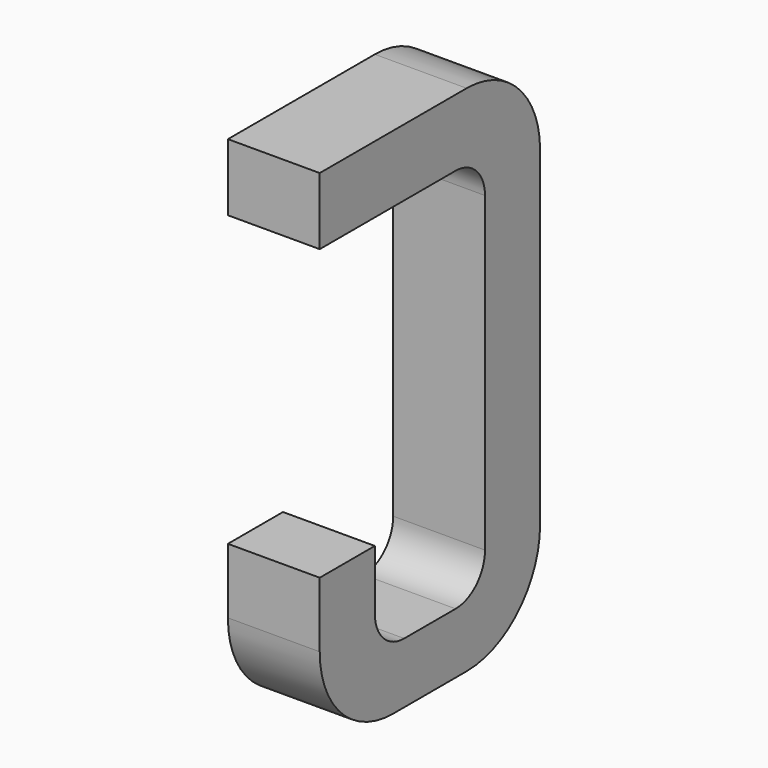
from build123d import *

# Parameters (mm, degrees)
BOX077_W     = 0.5
BOX077_H     = 1.5
BOX077_DEPTH = 2.795
FILLET222_R  = 0.5
FILLET217_R  = 0.5
FILLET223_R  = 0.5
BOX085_W     = 0.75
BOX085_H     = 2.1
BOX085_DEPTH = 1
FILLET213_R  = 0.2
FILLET229_R  = 0.2
FILLET219_R  = 0.2
FILLET224_R  = 0.2
BOX081_W     = 1
BOX081_H     = 1.575
BOX081_DEPTH = 3


with BuildPart() as part:
    # Box077 → Box077 (join)
    with BuildSketch(Plane(origin=(-0.25, 11.125, 0), x_dir=(1, 0, 0), z_dir=(0, 0, 1))):
        with Locations((0.25, 0.75)):
            Rectangle(BOX077_W, BOX077_H)
    extrude(amount=BOX077_DEPTH)

    # Fillet222
    fillet222_edges = [part.edges().sort_by_distance(p)[0] for p in [
        (0, 12.625, 0),
    ]]
    fillet(fillet222_edges, radius=FILLET222_R)

    # Fillet217
    fillet217_edges = [part.edges().sort_by_distance(p)[0] for p in [
        (0, 12.625, 2.795),
    ]]
    fillet(fillet217_edges, radius=FILLET217_R)

    # Fillet223
    fillet223_edges = [part.edges().sort_by_distance(p)[0] for p in [
        (0, 11.125, 0),
    ]]
    fillet(fillet223_edges, radius=FILLET223_R)

    # Box085 → Box085 (cut)
    with BuildSketch(Plane(origin=(-0.5, 11.5, 0.33), x_dir=(0, 1, 0), z_dir=(1, 0, 0))):
        with Locations((0.375, 1.05)):
            Rectangle(BOX085_W, BOX085_H)
    extrude(amount=BOX085_DEPTH, mode=Mode.SUBTRACT)

    # Fillet213
    fillet213_edges = [part.edges().sort_by_distance(p)[0] for p in [
        (0, 11.5, 0.33),
    ]]
    fillet(fillet213_edges, radius=FILLET213_R)

    # Fillet229
    fillet229_edges = [part.edges().sort_by_distance(p)[0] for p in [
        (0, 12.25, 0.33),
    ]]
    fillet(fillet229_edges, radius=FILLET229_R)

    # Fillet219
    fillet219_edges = [part.edges().sort_by_distance(p)[0] for p in [
        (0, 11.5, 2.43),
    ]]
    fillet(fillet219_edges, radius=FILLET219_R)

    # Fillet224
    fillet224_edges = [part.edges().sort_by_distance(p)[0] for p in [
        (0, 12.25, 2.43),
    ]]
    fillet(fillet224_edges, radius=FILLET224_R)

    # Box081 → Box081 (cut)
    with BuildSketch(Plane(origin=(-1, 11, 0.855), x_dir=(0, 1, 0), z_dir=(1, 0, 0))):
        with Locations((0.5, 0.7875)):
            Rectangle(BOX081_W, BOX081_H)
    extrude(amount=BOX081_DEPTH, mode=Mode.SUBTRACT)


with BuildPart() as part_1:
    # Body033 placement: moved
    add(part.part.moved(Location((-10.16, 0, 0))))


solid = part_1.part
